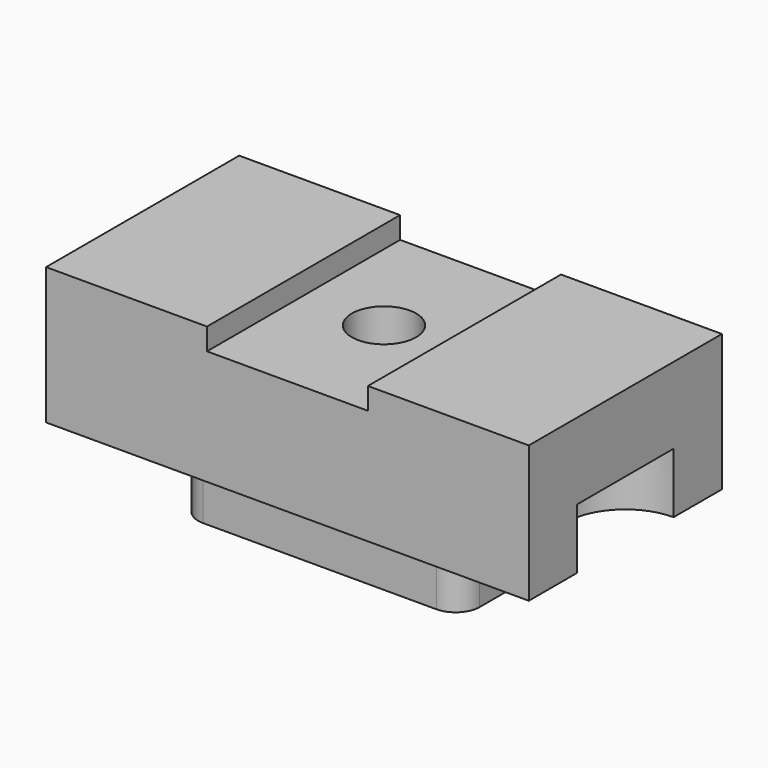
from build123d import *

# Parameters (mm, degrees)
F0_W      = 1200
F0_H      = 600
F1_DEPTH  = 340
F2_W      = 400
F2_H      = 54.2701794954
F3_DEPTH  = 600
F4_W      = 700
F4_H      = 400
F5_DEPTH  = 160
F6_R      = 80
F7_DEPTH  = 500.001
F9_DEPTH  = 150
F10_R     = 60
F11_DEPTH = 150


with BuildPart() as f1:
    # F0 (on Top) → F1 (new body)
    with BuildSketch(Plane.XY):
        Rectangle(F0_W, F0_H)
    extrude(amount=F1_DEPTH)

    # F2 (on face) → F3 (cut)
    with BuildSketch(Plane.XZ.offset(300)):
        with Locations((0, 312.8649102523)):
            Rectangle(F2_W, F2_H)
    extrude(amount=-F3_DEPTH, mode=Mode.SUBTRACT)

    # F4 (on face) → F5 (join)
    with BuildSketch(Plane(origin=(0, 0, 0), x_dir=(1, 0, 0), z_dir=(0, 0, -1))):
        Rectangle(F4_W, F4_H)
    extrude(amount=F5_DEPTH)

    # F6 (on face) → F7 (cut, through all)
    with BuildSketch(Plane(origin=(0, 0, -160), x_dir=(1, 0, 0), z_dir=(0, 0, -1))):
        Circle(F6_R)
    extrude(amount=-F7_DEPTH, mode=Mode.SUBTRACT)

    # F8 (on face) → F9 (cut)
    with BuildSketch(Plane(origin=(0, 0, 0), x_dir=(1, 0, 0), z_dir=(0, 0, -1))):
        with BuildLine():
            Line((600, -150), (600, 150))
            ThreePointArc((600, 150), (450, 0), (600, -150))
        make_face()
    extrude(amount=-F9_DEPTH, mode=Mode.SUBTRACT)

    # F10
    f10_edges = [f1.edges().sort_by_distance(p)[0] for p in [
        (-350, 200, -80),
        (350, 200, -80),
        (350, -200, -80),
        (-350, -200, -80),
    ]]
    fillet(f10_edges, radius=F10_R)

    # F8 (on face) → F11 (cut)
    with BuildSketch(Plane(origin=(0, 0, 0), x_dir=(1, 0, 0), z_dir=(0, 0, -1))):
        with BuildLine():
            ThreePointArc((-600, -120.9617067128), (-493.933982822, -77.0277238908), (-450, 29.0382932872))
            ThreePointArc((-450, 29.0382932872), (-493.933982822, 135.1043104651), (-600, 179.0382932872))
            Line((-600, 179.0382932872), (-600, -120.9617067128))
        make_face()
    extrude(amount=-F11_DEPTH, mode=Mode.SUBTRACT)


solid = f1.part
